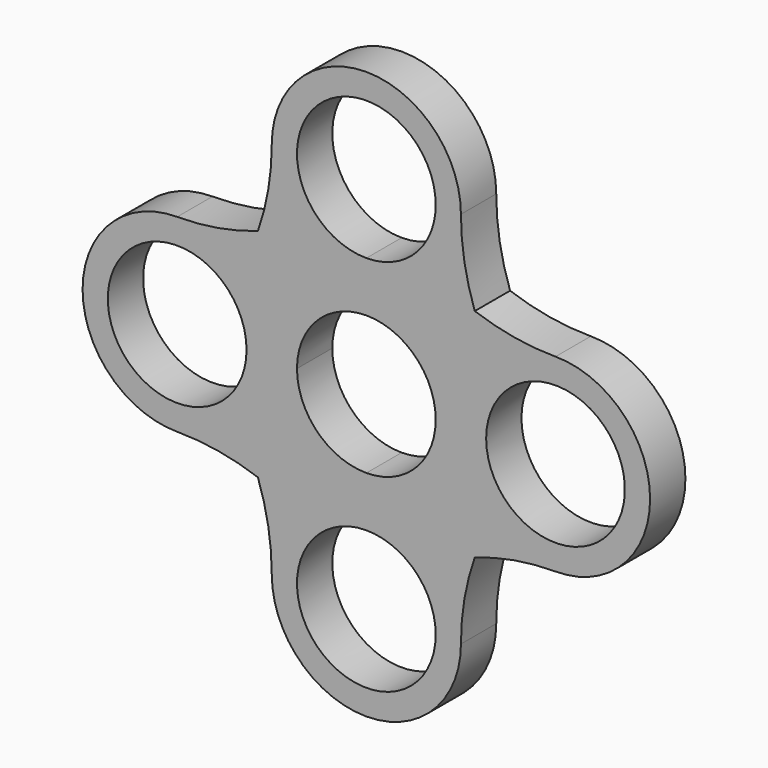
from build123d import *

# Parameters (mm, degrees)
F0_R     = 11
F1_DEPTH = 7


with BuildPart() as f1:
    # F0 (on Front) → F1 (new body)
    with BuildSketch(Plane.XZ):
        with BuildLine():
            ThreePointArc((30, -15), (45, 0), (30, 15))
            ThreePointArc((30, 15), (23.504809, 15.553158), (17.196699, 17.196699))
            ThreePointArc((17.196699, 17.196699), (15.553158, 23.504809), (15, 30))
            ThreePointArc((15, 30), (0, 45), (-15, 30))
            ThreePointArc((-15, 30), (-15.553158, 23.504809), (-17.196699, 17.196699))
            ThreePointArc((-17.196699, 17.196699), (-23.504809, 15.553158), (-30, 15))
            ThreePointArc((-30, 15), (-45, 0), (-30, -15))
            ThreePointArc((-30, -15), (-23.504809, -15.553158), (-17.196699, -17.196699))
            ThreePointArc((-17.196699, -17.196699), (-15.553158, -23.504809), (-15, -30))
            ThreePointArc((-15, -30), (0, -45), (15, -30))
            ThreePointArc((15, -30), (15.553158, -23.504809), (17.196699, -17.196699))
            ThreePointArc((17.196699, -17.196699), (23.504809, -15.553158), (30, -15))
        make_face()
        with BuildLine():
            ThreePointArc((11, -30), (-7.778175, -37.778175), (0, -19))
            ThreePointArc((0, -19), (7.778175, -22.221825), (11, -30))
        make_face(mode=Mode.SUBTRACT)
        with Locations((-30, 0)):
            Circle(F0_R, mode=Mode.SUBTRACT)
        with BuildLine():
            ThreePointArc((11, 0), (7.778175, -7.778175), (0, -11))
            ThreePointArc((0, -11), (-7.778175, -7.778175), (-11, 0))
            ThreePointArc((-11, 0), (-7.778175, 7.778175), (0, 11))
            ThreePointArc((0, 11), (7.778175, 7.778175), (11, 0))
        make_face(mode=Mode.SUBTRACT)
        with BuildLine():
            ThreePointArc((41, 0), (30, -11), (19, 0))
            ThreePointArc((19, 0), (30, 11), (41, 0))
        make_face(mode=Mode.SUBTRACT)
        with BuildLine():
            ThreePointArc((11, 30), (7.778175, 22.221825), (0, 19))
            ThreePointArc((0, 19), (-7.778175, 37.778175), (11, 30))
        make_face(mode=Mode.SUBTRACT)
    extrude(amount=F1_DEPTH)


solid = f1.part
